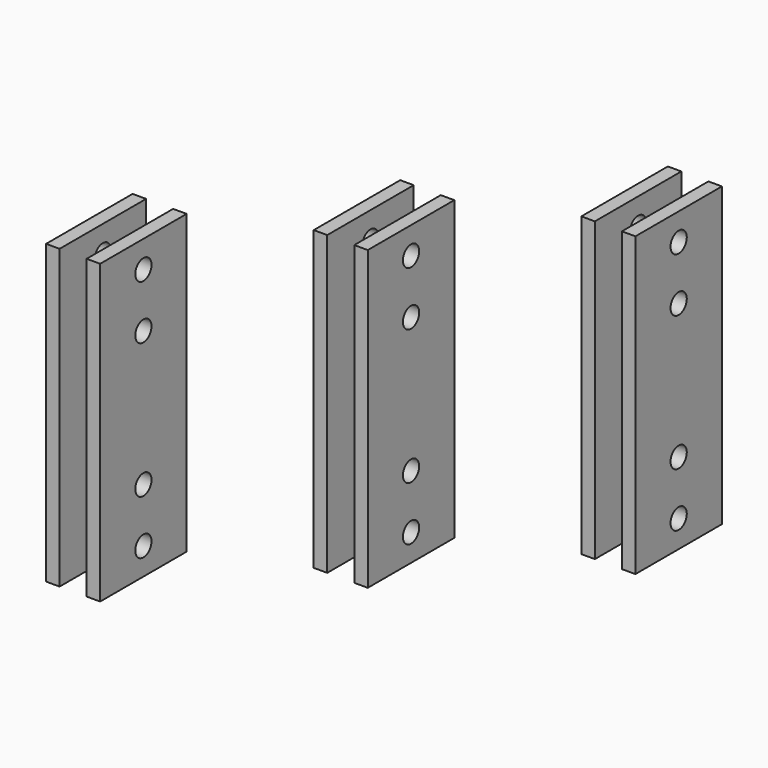
from build123d import *

# Parameters (mm, degrees)
F0_W     = 6.35
F0_H     = 50.8
F1_DEPTH = 69.85
F2_R     = 4.7625
F3_DEPTH = 165.101


with BuildPart() as f1:
    # F0 (on Top) → F1 (new body, symmetric)
    with BuildSketch(Plane.XY):
        with Locations((3.175, 25.4)):
            Rectangle(F0_W, F0_H)
        with Locations((22.225, 25.4)):
            Rectangle(F0_W, F0_H)
        with Locations((-66.675, -44.45)):
            Rectangle(F0_W, F0_H)
        with Locations((-47.625, -44.45)):
            Rectangle(F0_W, F0_H)
        with Locations((-136.525, -114.3)):
            Rectangle(F0_W, F0_H)
        with Locations((-117.475, -114.3)):
            Rectangle(F0_W, F0_H)
    extrude(amount=F1_DEPTH, both=True)

    # F2 (on face) → F3 (cut, through all)
    with BuildSketch(Plane(origin=(-139.7, 0, 0), x_dir=(0, -1, 0), z_dir=(-1, 0, 0))):
        with Locations((114.3, 57.15)):
            Circle(F2_R)
        with Locations((114.3, 31.75)):
            Circle(F2_R)
        with Locations((114.3, -57.15)):
            Circle(F2_R)
        with Locations((114.3, -31.75)):
            Circle(F2_R)
        with Locations((44.45, 31.75)):
            Circle(F2_R)
        with Locations((44.45, 57.15)):
            Circle(F2_R)
        with Locations((44.45, -57.15)):
            Circle(F2_R)
        with Locations((44.45, -31.75)):
            Circle(F2_R)
        with Locations((-25.4, 31.75)):
            Circle(F2_R)
        with Locations((-25.4, 57.15)):
            Circle(F2_R)
        with Locations((-25.4, -57.15)):
            Circle(F2_R)
        with Locations((-25.4, -31.75)):
            Circle(F2_R)
    extrude(amount=-F3_DEPTH, mode=Mode.SUBTRACT)


solid = f1.part
